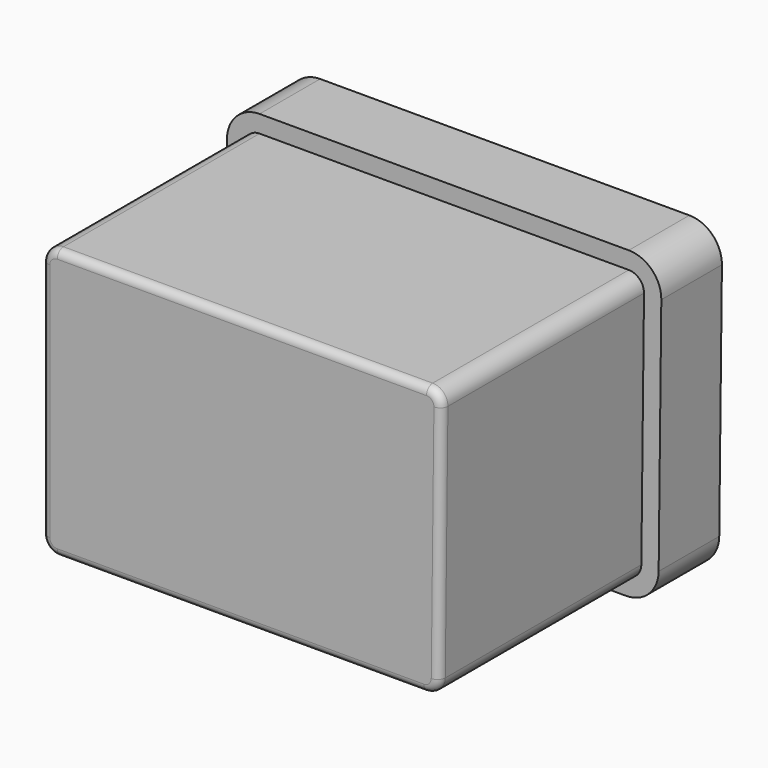
from build123d import *

# Parameters (mm, degrees)
F1_DEPTH = 12.986
F3_DEPTH = 3.89
F4_R     = 0.4


with BuildPart() as f1:
    # F0 (on Front) → F1 (new body)
    with BuildSketch(Plane.XZ):
        with BuildLine():
            Line((9.514224, 6.946266), (-9.445541, 6.946266))
            ThreePointArc((-9.445541, 6.946266), (-9.999012, 6.717011), (-10.228267, 6.16354))
            Line((-10.228267, 6.16354), (-10.228267, -6.159592))
            ThreePointArc((-10.228267, -6.159592), (-9.999012, -6.713063), (-9.445541, -6.942318))
            Line((-9.445541, -6.942318), (9.376897, -6.942318))
            ThreePointArc((9.376897, -6.942318), (9.927276, -6.716138), (10.159575, -6.168314))
            Line((10.159575, -6.168314), (10.296901, 6.154818))
            ThreePointArc((10.296901, 6.154818), (10.07077, 6.713918), (9.514224, 6.946266))
        make_face()
    extrude(amount=F1_DEPTH)

    # F2 (on face) → F3 (join)
    with BuildSketch(Plane(origin=(0, 0, 0), x_dir=(-1, 0, 0), z_dir=(0, 1, 0))):
        with BuildLine():
            Line((11.117267, -6.159592), (11.117267, 6.16354))
            ThreePointArc((11.117267, 6.16354), (10.62763, 7.345628), (9.445541, 7.835266))
            Line((9.445541, 7.835266), (-9.514224, 7.835266))
            ThreePointArc((-9.514224, 7.835266), (-10.70288, 7.339024), (-11.185846, 6.144911))
            Line((-11.185846, 6.144911), (-11.048519, -6.17822))
            ThreePointArc((-11.048519, -6.17822), (-10.552381, -7.348248), (-9.376897, -7.831318))
            Line((-9.376897, -7.831318), (9.445541, -7.831318))
            ThreePointArc((9.445541, -7.831318), (10.62763, -7.341681), (11.117267, -6.159592))
        make_face()
        with BuildLine():
            Line((-10.159575, -6.168314), (-10.296901, 6.154818))
            ThreePointArc((-10.296901, 6.154818), (-10.07077, 6.713918), (-9.514224, 6.946266))
            Line((-9.514224, 6.946266), (9.445541, 6.946266))
            ThreePointArc((9.445541, 6.946266), (9.999012, 6.717011), (10.228267, 6.16354))
            Line((10.228267, 6.16354), (10.228267, -6.159592))
            ThreePointArc((10.228267, -6.159592), (9.999012, -6.713063), (9.445541, -6.942318))
            Line((9.445541, -6.942318), (-9.376897, -6.942318))
            ThreePointArc((-9.376897, -6.942318), (-9.927276, -6.716138), (-10.159575, -6.168314))
        make_face(mode=Mode.SUBTRACT)
        with BuildLine():
            ThreePointArc((-9.514224, 6.946266), (-10.07077, 6.713918), (-10.296901, 6.154818))
            Line((-10.296901, 6.154818), (-10.159575, -6.168314))
            ThreePointArc((-10.159575, -6.168314), (-9.927276, -6.716138), (-9.376897, -6.942318))
            Line((-9.376897, -6.942318), (9.445541, -6.942318))
            ThreePointArc((9.445541, -6.942318), (9.999012, -6.713063), (10.228267, -6.159592))
            Line((10.228267, -6.159592), (10.228267, 6.16354))
            ThreePointArc((10.228267, 6.16354), (9.999012, 6.717011), (9.445541, 6.946266))
            Line((9.445541, 6.946266), (-9.514224, 6.946266))
        make_face()
    extrude(amount=F3_DEPTH)

    # F4
    f4_edges = [f1.edges().sort_by_distance(p)[0] for p in [
        (10.07077, -12.986, 6.713918),
        (0.034341, -12.986, 6.946266),
        (-9.999012, -12.986, 6.717011),
        (-10.228267, -12.986, 0.001974),
        (-9.999012, -12.986, -6.713063),
        (-0.034322, -12.986, -6.942318),
        (9.927276, -12.986, -6.716138),
        (10.228238, -12.986, -0.006748),
    ]]
    fillet(f4_edges, radius=F4_R)


solid = f1.part
